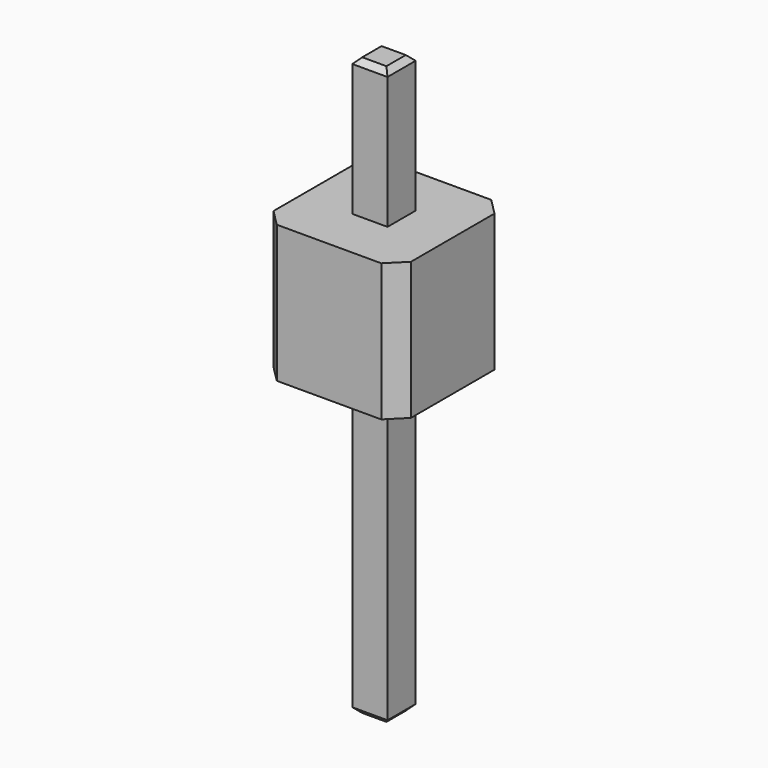
from build123d import *

# Parameters (mm, degrees)
SKETCH_W        = 2.5
SKETCH_H        = 2.5
PAD_DEPTH       = 2.5
CHAMFER_SIZE    = 0.3
SKETCH001_W     = 0.64
SKETCH001_H     = 0.64
PAD001_DEPTH    = 2.5
CHAMFER001_SIZE = 0.1
SKETCH002_W     = 0.64
SKETCH002_H     = 0.64
PAD002_DEPTH    = 5.5
CHAMFER002_SIZE = 0.1


with BuildPart() as part:
    # Sketch → Pad (new body)
    with BuildSketch(Plane.XY):
        with Locations((1.25, 1.25)):
            Rectangle(SKETCH_W, SKETCH_H)
    extrude(amount=PAD_DEPTH)

    # Chamfer
    chamfer_edges = [part.edges().sort_by_distance(p)[0] for p in [
        (0, 0, 1.25),
        (2.5, 0, 1.25),
        (0, 2.5, 1.25),
        (2.5, 2.5, 1.25),
    ]]
    chamfer(chamfer_edges, length=CHAMFER_SIZE)

    # Sketch001 → Pad001 (new body)
    with BuildSketch(Plane.XY.offset(2.5)):
        with Locations((1.25, 1.25)):
            Rectangle(SKETCH001_W, SKETCH001_H)
    extrude(amount=PAD001_DEPTH)

    # Chamfer001
    chamfer001_edges = [part.edges().sort_by_distance(p)[0] for p in [
        (1.25, 1.57, 5),
        (1.57, 1.25, 5),
        (1.25, 0.93, 5),
        (0.93, 1.25, 5),
    ]]
    chamfer(chamfer001_edges, length=CHAMFER001_SIZE)

    # Sketch002 → Pad002 (new body)
    with BuildSketch(Plane(origin=(0, 0, 0), x_dir=(1, 0, 0), z_dir=(0, 0, -1))):
        with Locations((1.25, -1.25)):
            Rectangle(SKETCH002_W, SKETCH002_H)
    extrude(amount=PAD002_DEPTH)

    # Chamfer002
    chamfer002_edges = [part.edges().sort_by_distance(p)[0] for p in [
        (1.25, 0.93, -5.5),
        (1.57, 1.25, -5.5),
        (1.25, 1.57, -5.5),
        (0.93, 1.25, -5.5),
    ]]
    chamfer(chamfer002_edges, length=CHAMFER002_SIZE)


solid = part.part
